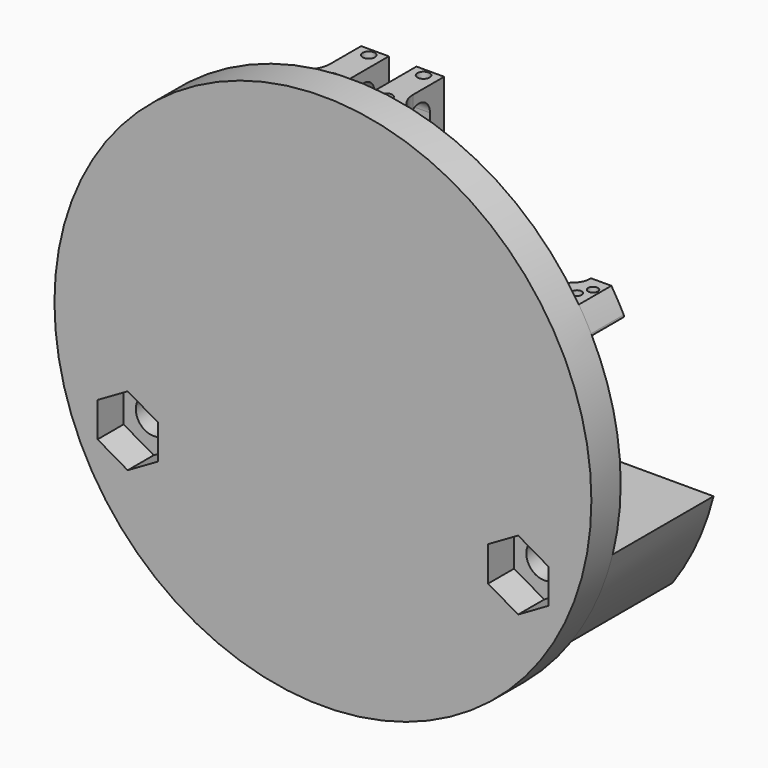
from build123d import *

# Parameters (mm, degrees)
SKETCH002_R     = 2.2
SKETCH002_R_2   = 1.45
PAD002_DEPTH    = 15.5
SKETCH003_R     = 33
SKETCH003_R_2   = 2.2
PAD003_DEPTH    = 4.5
POCKET_DEPTH    = 3
POCKET001_DEPTH = 4
POCKET003_DEPTH = 2
SKETCH011_W     = 5.5
SKETCH011_H     = 11.1
POCKET004_DEPTH = 25.001
SKETCH012_W     = 3.4
SKETCH012_H     = 17.1165875376
PAD007_DEPTH    = 7.75
POCKET005_DEPTH = 229.0145930205
SKETCH017_R     = 0.75
POCKET008_DEPTH = 17.1165875376
PAD008_DEPTH    = 5
SKETCH020_R     = 0.6
POCKET009_DEPTH = 3.0152762344
FILLET_R        = 3
CHAMFER_SIZE    = 4
CHAMFER001_SIZE = 4
FILLET006_R     = 2
FILLET007_R     = 2


with BuildPart() as part:
    # Sketch002 (on Face1 of ShapeBinder) → Pad002 (new body)
    with BuildSketch(Plane.XZ.offset(37.5)):
        with BuildLine():
            Line((-32.0156211872, -8), (32.0156211872, -8))
            ThreePointArc((26.9599822671, -19.0304849165), (29.9991391555, -13.7496054463), (32.0156211872, -8))
            Line((-26.9599822671, -19.0304849165), (26.9599822671, -19.0304849165))
            ThreePointArc((-32.0156211872, -8), (-29.9991391555, -13.7496054463), (-26.9599822671, -19.0304849165))
        make_face()
        with Locations((24, -11)):
            Circle(SKETCH002_R, mode=Mode.SUBTRACT)
        with Locations((0, -11)):
            Circle(SKETCH002_R_2, mode=Mode.SUBTRACT)
        with Locations((-24, -11)):
            Circle(SKETCH002_R, mode=Mode.SUBTRACT)
    extrude(amount=PAD002_DEPTH)

    # Sketch003 (on Face9 of Pad002) → Pad003 (join)
    with BuildSketch(Plane.XZ.offset(53)):
        Circle(SKETCH003_R)
        with Locations((24, -11)):
            Circle(SKETCH003_R_2, mode=Mode.SUBTRACT)
        with Locations((-24, -11)):
            Circle(SKETCH003_R_2, mode=Mode.SUBTRACT)
    extrude(amount=PAD003_DEPTH)

    # Sketch007 (on Face2 of Pad003) → Pocket (cut)
    with BuildSketch(Plane(origin=(0, -4.5, -8), x_dir=(1, 0, 0), z_dir=(0, 0, 1))):
        with BuildLine():
            ThreePointArc((1.45, -35), (0, -33.55), (-1.45, -35))
            Line((-1.45, -35), (-1.45, -45))
            Line((-1.45, -45), (1.45, -45))
            Line((1.45, -35), (1.45, -45))
        make_face()
    extrude(amount=-POCKET_DEPTH, mode=Mode.SUBTRACT)

    # Sketch008 (on Face16 of Pocket) → Pocket001 (cut)
    with BuildSketch(Plane.XZ.offset(57.5)):
        Polygon((27.7, -13.136195996), (27.7, -8.863804004), (24, -6.727608008), (20.3, -8.863804004), (20.3, -13.136195996), (24, -15.272391992), align=None)
        Polygon((-20.3, -13.136195996), (-20.3, -8.863804004), (-24, -6.727608008), (-27.7, -8.863804004), (-27.7, -13.136195996), (-24, -15.272391992), align=None)
    extrude(amount=-POCKET001_DEPTH, mode=Mode.SUBTRACT)

    # Sketch010 (on Face10 of Pocket001) → Pocket003 (cut)
    with BuildSketch(Plane(origin=(0, -49.5, 0), x_dir=(-1, 0, 0), z_dir=(0, 1, 0))):
        with BuildLine():
            ThreePointArc((-11, -11.0000000007), (6e-10, -22), (11, -10.9999999995))
            Line((11, 0), (11, -10.9999999995))
            Line((-11, 0), (11, 0))
            Line((-11, 0), (-11, -11.0000000007))
        make_face()
    extrude(amount=-POCKET003_DEPTH, mode=Mode.SUBTRACT)

    # Sketch011 (on Face2 of Pocket003) → Pocket004 (cut, through all)
    with BuildSketch(Plane(origin=(0, -4.5, -8), x_dir=(1, 0, 0), z_dir=(0, 0, 1))):
        with Locations((17.2656211872, -40.75)):
            Rectangle(SKETCH011_W, SKETCH011_H)
    extrude(amount=-POCKET004_DEPTH, mode=Mode.SUBTRACT)

    # Sketch012 (on Face6 of Pocket004) → Pad007 (join)
    with BuildSketch(Plane(origin=(0, -53, 0), x_dir=(-1, 0, 0), z_dir=(0, 1, 0))):
        with Locations((-3.4, 23.2352590367)):
            Rectangle(SKETCH012_W, SKETCH012_H)
        with Locations((3.4, 23.2352590367)):
            Rectangle(SKETCH012_W, SKETCH012_H)
    extrude(amount=PAD007_DEPTH)

    # Sketch013 (on Face33 of Pad007) → Pocket005 (cut, through all)
    with BuildSketch(Plane(origin=(5.1, -4.5, 0), x_dir=(0, 1, 0), z_dir=(1, 0, 0))):
        with BuildLine():
            ThreePointArc((-42.925, 28.7693325629), (-44.625, 30.4693325629), (-46.325, 28.7693325629))
            Line((-46.325, 28.7693325629), (-46.325, 17.7011855106))
            ThreePointArc((-46.325, 17.7011855106), (-44.625, 16.0011855106), (-42.925, 17.7011855106))
            Line((-42.925, 28.7693325629), (-42.925, 17.7011855106))
        make_face()
    extrude(amount=-POCKET005_DEPTH, mode=Mode.SUBTRACT)

    # Sketch017 (on Face30 of Pocket005) → Pocket008 (cut)
    with BuildSketch(Plane(origin=(0, -4.5, 31.7935528056), x_dir=(1, 0, 0), z_dir=(0, 0, 1))):
        with Locations((-3.3679491924, -41.75)):
            Circle(SKETCH017_R)
        with Locations((3.3679491924, -41.75)):
            Circle(SKETCH017_R)
        with Locations((-3.3679491924, -47.5)):
            Circle(SKETCH017_R)
        with Locations((3.3679491924, -47.5)):
            Circle(SKETCH017_R)
    extrude(amount=-POCKET008_DEPTH, mode=Mode.SUBTRACT)

    # Sketch019 (on Face6 of Pocket008) → Pad008 (join)
    with BuildSketch(Plane(origin=(0, -53, 0), x_dir=(-1, 0, 0), z_dir=(0, 1, 0))):
        with BuildLine():
            ThreePointArc((29.3729634054, 15.0409115677), (28.645422971, 16.3841308226), (27.8564999708, 17.6922415023))
            Line((25.3564999708, 17.6922415023), (27.8564999708, 17.6922415023))
            Line((25.3564999708, 17.6922415023), (25.3564999708, 14.6769652679))
            Line((25.3564999708, 14.6769652679), (29.1504409553, 14.6769652679))
            ThreePointArc((29.1504409553, 14.6769652679), (29.3637325104, 14.796555481), (29.3729634054, 15.0409115677))
        make_face()
    pad008 = extrude(amount=PAD008_DEPTH)

    # Sketch020 (on Face30 of Pad008) → Pocket009 (cut)
    with BuildSketch(Plane(origin=(0, -4.5, 17.6922415023), x_dir=(1, 0, 0), z_dir=(0, 0, 1))):
        with Locations((-26.988867595, -45.2352647517)):
            Circle(SKETCH020_R)
        with Locations((-26.2241323467, -46.7647352483)):
            Circle(SKETCH020_R)
    pocket009 = extrude(amount=-POCKET009_DEPTH, mode=Mode.SUBTRACT)

    # Mirrored: Pad008 across Sketch019 V_Axis
    add(pad008.mirror(Plane(origin=(0, -53, 0), x_dir=(0, 1, 0), z_dir=(-1, 0, 0))))

    # Mirrored001: Pocket009 across Sketch020 V_Axis
    add(pocket009.mirror(Plane(origin=(0, -4.5, 17.6922415023), x_dir=(0, 0, 1), z_dir=(1, 0, 0))), mode=Mode.SUBTRACT)

    # Fillet
    fillet_edges = [part.edges().sort_by_distance(p)[0] for p in [
        (5.1, -53, 23.235259),
        (-5.1, -53, 23.235259),
    ]]
    fillet(fillet_edges, radius=FILLET_R)

    # Chamfer
    chamfer_edges = [part.edges().sort_by_distance(p)[0] for p in [
        (-25.3565, -53, 16.184603),
    ]]
    chamfer(chamfer_edges, length=CHAMFER_SIZE)

    # Chamfer001
    chamfer001_edges = [part.edges().sort_by_distance(p)[0] for p in [
        (25.3565, -53, 16.184603),
    ]]
    chamfer(chamfer001_edges, length=CHAMFER001_SIZE)

    # Fillet006
    fillet006_edges = [part.edges().sort_by_distance(p)[0] for p in [
        (-25.3565, -49, 16.184603),
    ]]
    fillet(fillet006_edges, radius=FILLET006_R)

    # Fillet007
    fillet007_edges = [part.edges().sort_by_distance(p)[0] for p in [
        (25.3565, -49, 16.184603),
    ]]
    fillet(fillet007_edges, radius=FILLET007_R)


solid = part.part
